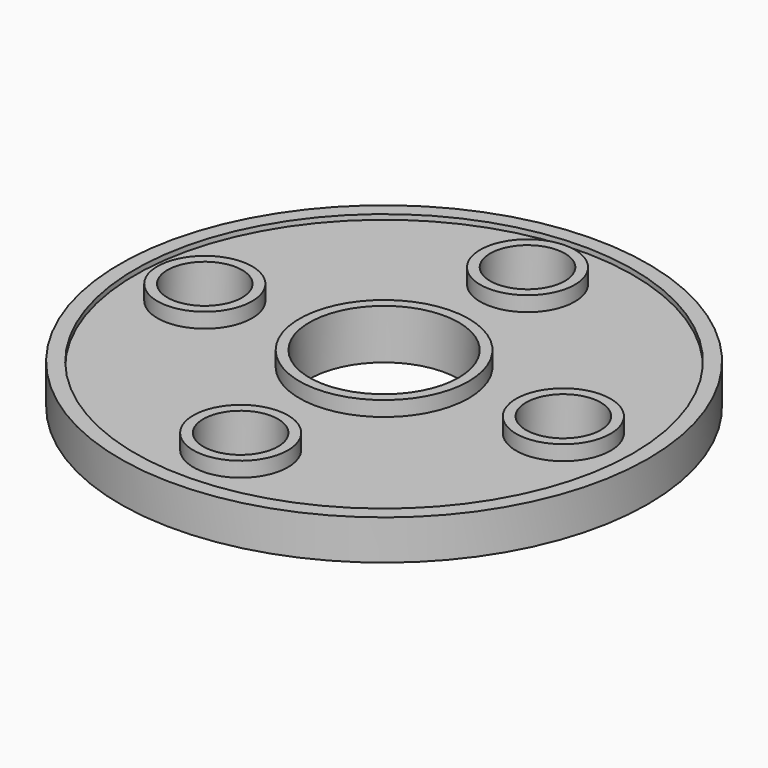
from build123d import *

# Parameters (mm, degrees)
F0_R     = 50
F0_R_2   = 9.5
F0_R_3   = 17
F1_DEPTH = 7
F0_R_4   = 53
F2_DEPTH = 8
F0_R_5   = 7.5
F0_R_6   = 15
F3_DEPTH = 10


with BuildPart() as f1:
    # F0 (on Top) → F1 (new body)
    with BuildSketch(Plane.XY):
        Circle(F0_R)
        with Locations((0, -36)):
            Circle(F0_R_2, mode=Mode.SUBTRACT)
        with Locations((-36, 0)):
            Circle(F0_R_2, mode=Mode.SUBTRACT)
        Circle(F0_R_3, mode=Mode.SUBTRACT)
        with Locations((36, 0)):
            Circle(F0_R_2, mode=Mode.SUBTRACT)
        with Locations((0, 36)):
            Circle(F0_R_2, mode=Mode.SUBTRACT)
    extrude(amount=F1_DEPTH)

    # F0 (on Top) → F2 (join)
    with BuildSketch(Plane.XY):
        Circle(F0_R_4)
        Circle(F0_R, mode=Mode.SUBTRACT)
    extrude(amount=F2_DEPTH)

    # F0 (on Top) → F3 (join)
    with BuildSketch(Plane.XY):
        with Locations((0, 36)):
            Circle(F0_R_2)
        with Locations((0, 36)):
            Circle(F0_R_5, mode=Mode.SUBTRACT)
        with Locations((-36, 0)):
            Circle(F0_R_2)
        with Locations((-36, 0)):
            Circle(F0_R_5, mode=Mode.SUBTRACT)
        with Locations((36, 0)):
            Circle(F0_R_2)
        with Locations((36, 0)):
            Circle(F0_R_5, mode=Mode.SUBTRACT)
        with Locations((0, -36)):
            Circle(F0_R_2)
        with Locations((0, -36)):
            Circle(F0_R_5, mode=Mode.SUBTRACT)
        Circle(F0_R_3)
        Circle(F0_R_6, mode=Mode.SUBTRACT)
    extrude(amount=F3_DEPTH)


solid = f1.part
